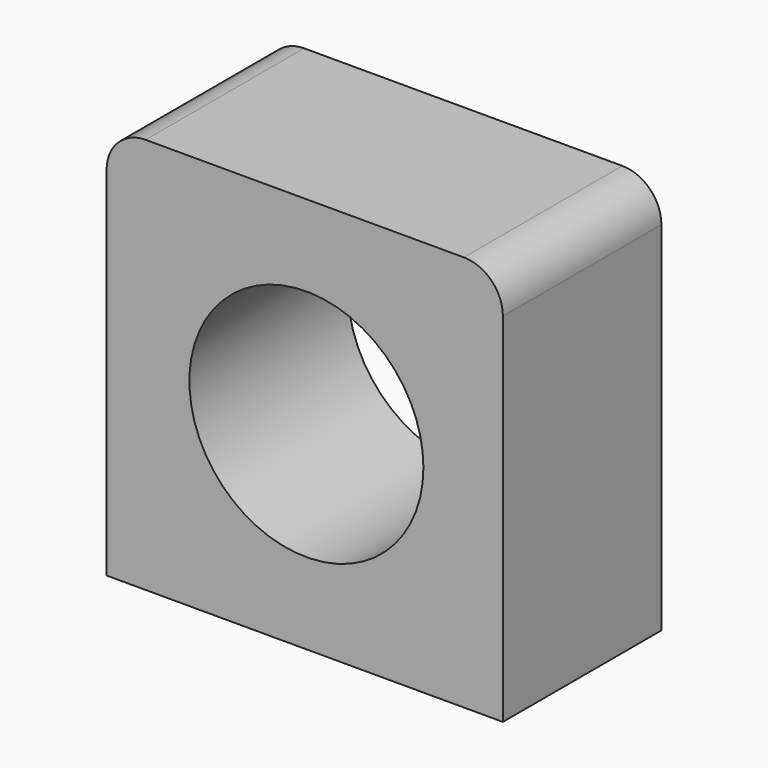
from build123d import *

# Parameters (mm, degrees)
F0_W     = 50.8
F0_H     = 50.8
F1_DEPTH = 25.4
F2_R     = 5
F3_R     = 5
F4_R     = 15
F5_DEPTH = 25.4


with BuildPart() as f1:
    # F0 (on Front) → F1 (new body)
    with BuildSketch(Plane.XZ):
        with Locations((-25.4, 25.4)):
            Rectangle(F0_W, F0_H)
    extrude(amount=F1_DEPTH)

    # F2
    f2_edges = [f1.edges().sort_by_distance(p)[0] for p in [
        (-50.8, -12.7, 50.8),
    ]]
    fillet(f2_edges, radius=F2_R)

    # F3
    f3_edges = [f1.edges().sort_by_distance(p)[0] for p in [
        (0, -12.7, 50.8),
    ]]
    fillet(f3_edges, radius=F3_R)

    # F4 (on face) → F5 (cut, through all)
    with BuildSketch(Plane.XZ.offset(25.4)):
        with Locations((-25.188129, 25.400884)):
            Circle(F4_R)
    extrude(amount=-F5_DEPTH, mode=Mode.SUBTRACT)


solid = f1.part
